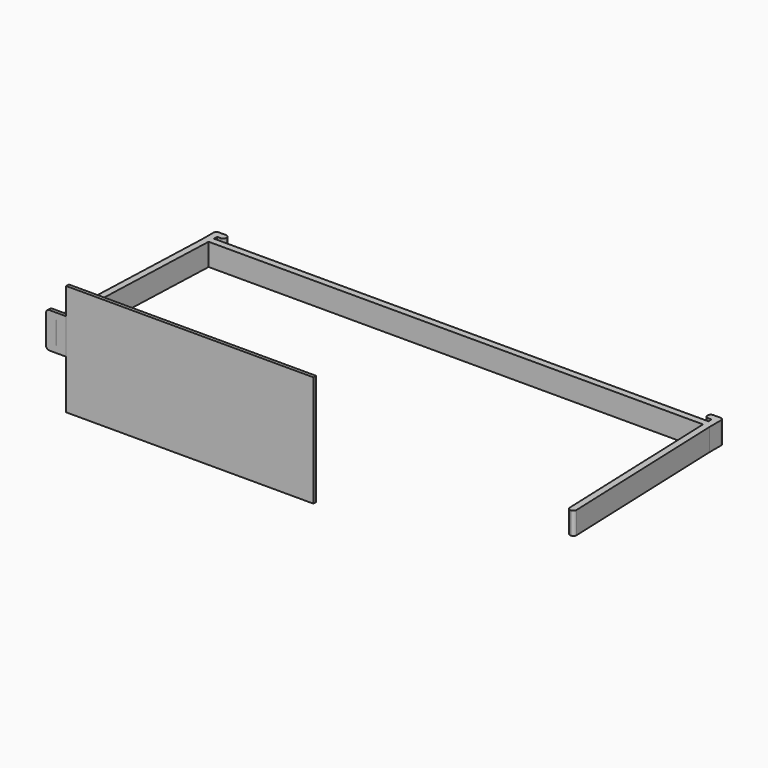
from build123d import *

# Parameters (mm, degrees)
F2_W     = 111.125
F2_H     = 3
F3_DEPTH = 10
F4_R     = 1.4
F2_H_2   = 1.5
F6_DEPTH = 25
F8_DEPTH = 1.5
F10_R    = 1.5


with BuildPart() as f3:
    # F2 (on Top) → F3 (new body)
    with BuildSketch(Plane.XY):
        Polygon((-114.1845599092, -80), (-111.125, 0), (-114.125, 0), (-117.1845599092, -80), align=None)
        Polygon((-114.125, 0), (-111.125, 0), (-111.125, 3), (-111.125, 4.8), (-108.125, 4.8), (-108.125, 7.8), (-114.125, 7.8), align=None)
        with Locations((-55.5625, 1.5)):
            Rectangle(F2_W, F2_H)
    extrude(amount=F3_DEPTH)

    # F4
    f4_edges = [f3.edges().sort_by_distance(p)[0] for p in [
        (-117.18456, -80, 5),
        (-114.18456, -80, 5),
        (-108.125, 7.8, 5),
        (-108.125, 4.8, 5),
        (-114.125, 7.8, 5),
    ]]
    fillet(f4_edges, radius=F4_R)

    # F5: F3 across face


with BuildPart() as f3_1:
    add(f3.part)
    add(f3.part.mirror(Plane(origin=(0, 1.5, 5), x_dir=(0, 1, 0), z_dir=(1, 0, 0))))


with BuildPart() as f6:
    # F2 (on Top) → F6 (new body, symmetric)
    with BuildSketch(Plane.XY):
        with Locations((-55.5625, -79.25)):
            Rectangle(F2_W, F2_H_2)
    extrude(amount=F6_DEPTH, both=True)


with BuildPart() as f8:
    # F7 (on face) → F8 (new body, through all)
    with BuildSketch(Plane(origin=(0, -78.5, 0), x_dir=(-1, 0, 0), z_dir=(0, 1, 0))):
        Polygon((114.1330638133, 10), (117.1289714083, 10), (117.1845599092, 10), (117.1845599092, 0), (114.1845599092, 0), (114.125, 0), (111.125, 0), (111.125, -3), (120.1845599092, -3), (120.1845599092, 13), (111.125, 13), (111.125, 10), (114.125, 10), align=None)
        Polygon((117.1845599092, 10), (117.1289714083, 10), (114.1330638133, 10), (114.125, 10), (111.125, 10), (111.125, 0), (114.125, 0), (114.1845599092, 0), (117.1845599092, 0), align=None)
    extrude(amount=-F8_DEPTH)

    # F9: cut F3
    add(f3_1.part, mode=Mode.SUBTRACT)

    # F10
    f10_edges = [f8.edges().sort_by_distance(p)[0] for p in [
        (-120.18456, -79.25, 13),
        (-120.18456, -79.25, -3),
    ]]
    fillet(f10_edges, radius=F10_R)


solid = Compound([f3_1.part, f6.part, f8.part])
